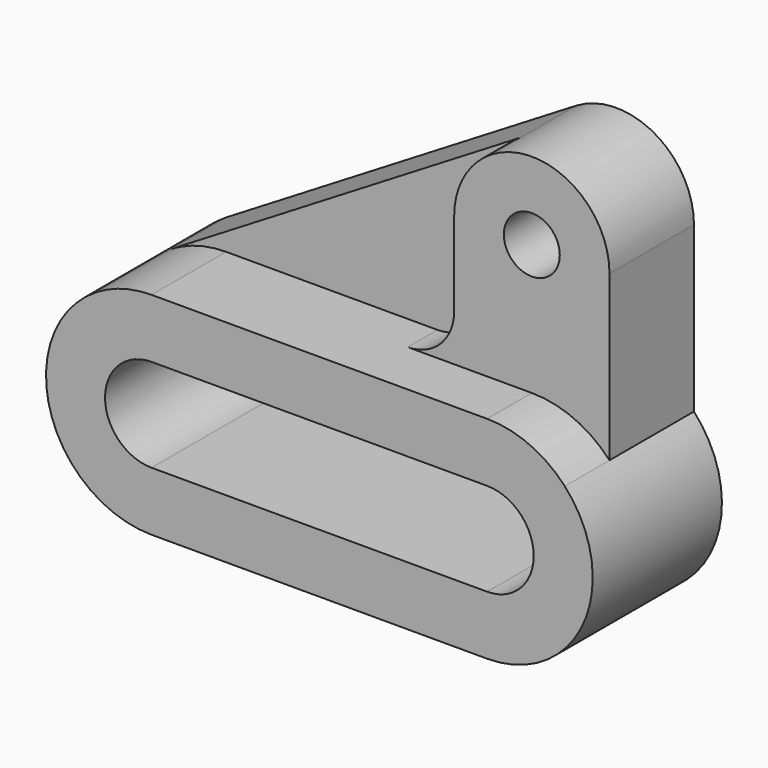
from build123d import *

# Parameters (mm, degrees)
F1_DEPTH = 52
F2_DEPTH = 22
F0_R     = 9
F3_DEPTH = 34


with BuildPart() as f1:
    # F0 (on Front) → F1 (new body)
    with BuildSketch(Plane.XZ):
        with BuildLine():
            Line((14, 34), (-54, 34))
            ThreePointArc((-54, 34), (-63.150826, 32.745418), (-71.62633, 29.074258))
            ThreePointArc((-71.62633, 29.074258), (-86.745418, -9.150826), (-54, -34))
            Line((-54, -34), (54, -34))
            ThreePointArc((54, -34), (85.140624, -13.647768), (79, 23.043437))
            ThreePointArc((79, 23.043437), (67.647768, 31.140624), (54, 34))
            Line((54, 34), (27.266499, 34))
            Line((27.266499, 34), (14, 34))
        make_face()
        with BuildLine():
            ThreePointArc((-54, -15), (-69, 0), (-54, 15))
            Line((-54, 15), (54, 15))
            ThreePointArc((54, 15), (69, 0), (54, -15))
            Line((54, -15), (-54, -15))
        make_face(mode=Mode.SUBTRACT)
    extrude(amount=F1_DEPTH)

    # F0 (on Front) → F2 (join)
    with BuildSketch(Plane.XZ):
        with BuildLine():
            ThreePointArc((-71.62633, 29.074258), (-63.150826, 32.745418), (-54, 34))
            Line((-54, 34), (14, 34))
            ThreePointArc((14, 34), (24.606602, 38.393398), (29, 49))
            Line((29, 49), (29, 76))
            ThreePointArc((29, 76), (32.216825, 88.267571), (41.039463, 97.378131))
            Line((41.039463, 97.378131), (-71.62633, 29.074258))
        make_face()
    extrude(amount=F2_DEPTH)

    # F0 (on Front) → F3 (join)
    with BuildSketch(Plane.XZ):
        with BuildLine():
            ThreePointArc((29, 49), (24.606602, 38.393398), (14, 34))
            Line((14, 34), (27.266499, 34))
            Line((27.266499, 34), (54, 34))
            ThreePointArc((54, 34), (67.647768, 31.140624), (79, 23.043437))
            Line((79, 23.043437), (79, 76))
            ThreePointArc((79, 76), (54, 51), (29, 76))
            Line((29, 76), (29, 49))
        make_face()
        with BuildLine():
            ThreePointArc((79, 76), (66.267571, 97.783175), (41.039463, 97.378131))
            ThreePointArc((41.039463, 97.378131), (32.216825, 88.267571), (29, 76))
            ThreePointArc((29, 76), (54, 51), (79, 76))
        make_face()
        with Locations((54, 76)):
            Circle(F0_R, mode=Mode.SUBTRACT)
    extrude(amount=F3_DEPTH)


solid = f1.part
